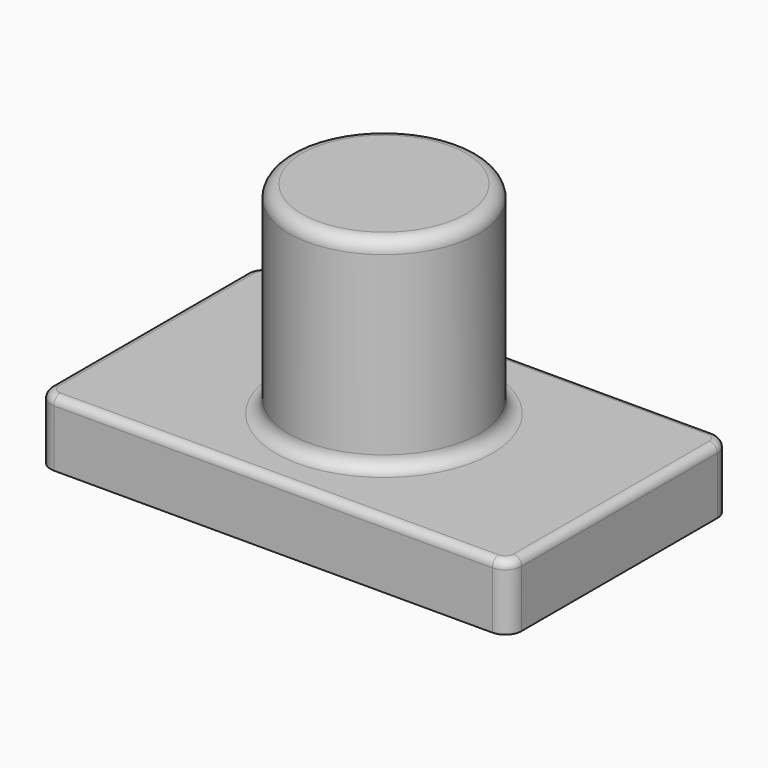
from build123d import *

# Parameters (mm, degrees)
F0_W     = 183.617264
F0_H     = 108.108356
F1_DEPTH = 25.4
F2_R     = 6.35
F3_R     = 37.05912
F4_DEPTH = 78.90592
F5_R     = 5.08
F6_R     = 3.175


with BuildPart() as f1:
    # F0 (on Top) → F1 (new body)
    with BuildSketch(Plane.XY):
        Rectangle(F0_W, F0_H)
    extrude(amount=F1_DEPTH)

    # F2
    f2_edges = [f1.edges().sort_by_distance(p)[0] for p in [
        (-91.808632, -54.054178, 12.7),
        (91.808632, -54.054178, 12.7),
        (91.808632, 54.054178, 12.7),
        (-91.808632, 54.054178, 12.7),
    ]]
    fillet(f2_edges, radius=F2_R)

    # F3 (on face) → F4 (join)
    with BuildSketch(Plane.XY.offset(25.4)):
        Circle(F3_R)
    extrude(amount=F4_DEPTH)

    # F5
    f5_edges = [f1.edges().sort_by_distance(p)[0] for p in [
        (37.05912, 0, 64.85296),
        (-37.05912, 0, 25.4),
        (-37.05912, 0, 104.30592),
    ]]
    fillet(f5_edges, radius=F5_R)

    # F6
    f6_edges = [f1.edges().sort_by_distance(p)[0] for p in [
        (-31.97912, 0, 104.30592),
        (-91.808632, 0, 25.4),
    ]]
    fillet(f6_edges, radius=F6_R)


solid = f1.part
